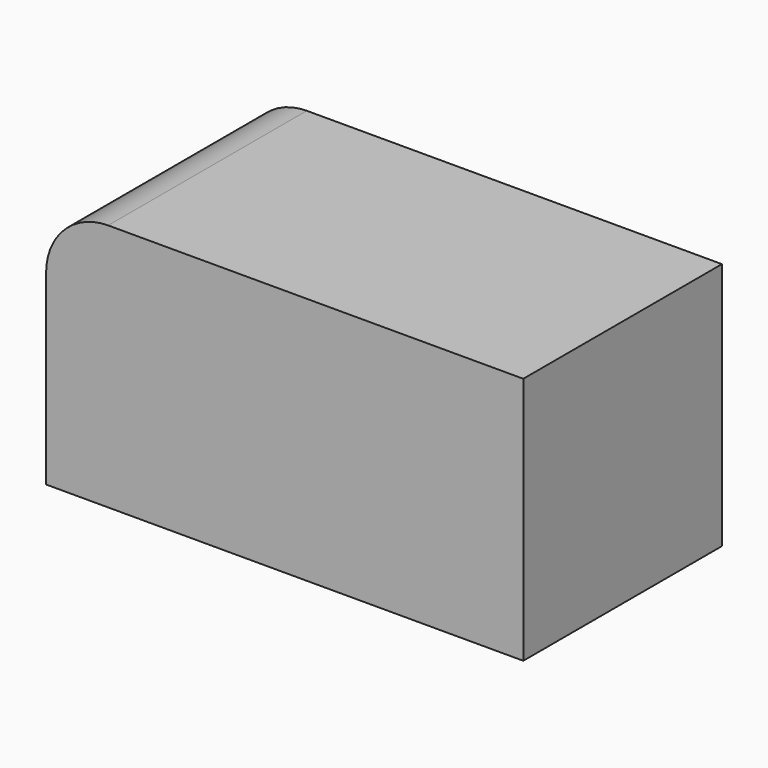
from build123d import *

# Parameters (mm, degrees)
F0_W     = 195.273734
F0_H     = 101.6
F1_DEPTH = 101.6
F2_W     = 38.1
F2_H     = 101.6
F3_DEPTH = 76.2
F4_R     = 25.4


with BuildPart() as f1:
    # F0 (on Front) → F1 (new body)
    with BuildSketch(Plane.XZ):
        with Locations((-97.636867, 50.8)):
            Rectangle(F0_W, F0_H)
    extrude(amount=F1_DEPTH)

    # F2 (on face) → F3 (join)
    with BuildSketch(Plane.XY.offset(101.6)):
        with Locations((-105.483266, -50.8)):
            Rectangle(F2_W, F2_H)
    extrude(amount=-F3_DEPTH)

    # F4
    f4_edges = [f1.edges().sort_by_distance(p)[0] for p in [
        (-195.273734, -50.8, 101.6),
    ]]
    fillet(f4_edges, radius=F4_R)


solid = f1.part
